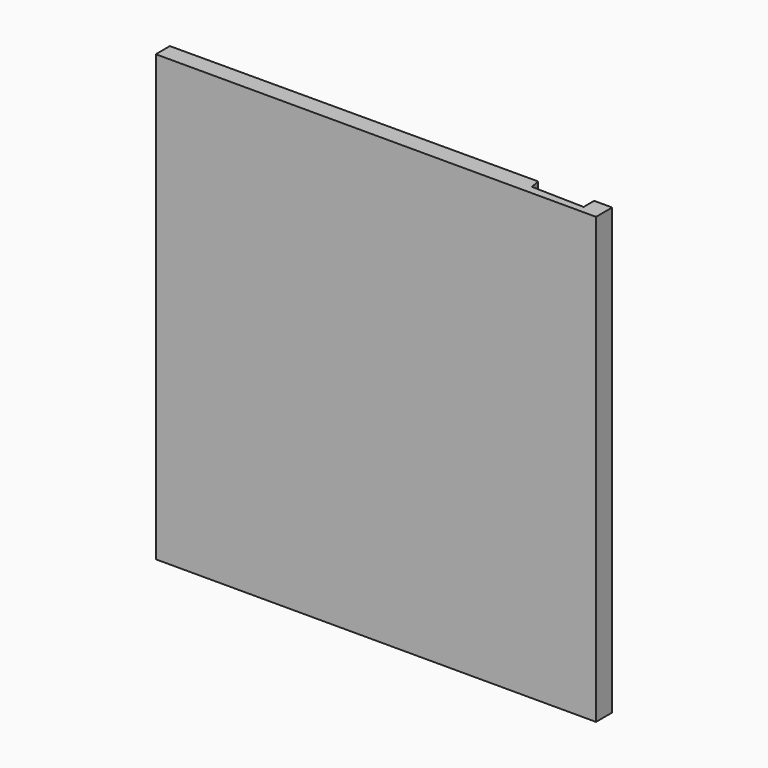
from build123d import *

# Parameters (mm, degrees)
F5_DEPTH = 2020


with BuildPart() as f5:
    # F3 (on face) → F5 (new body, through all)
    with BuildSketch(Plane.XY.offset(1210)):
        Polygon((-1953.332702, 80), (-1953.332702, 0), (-276.20744, 0), (-36.132452, 0), (46.667298, 0), (46.667298, 91.990005), (-35.332702, 91.990005), (-35.332702, 31.990005), (-275.257737, 37.988131), (-283.338208, 84.288303), align=None)
    extrude(amount=-F5_DEPTH)


solid = f5.part
